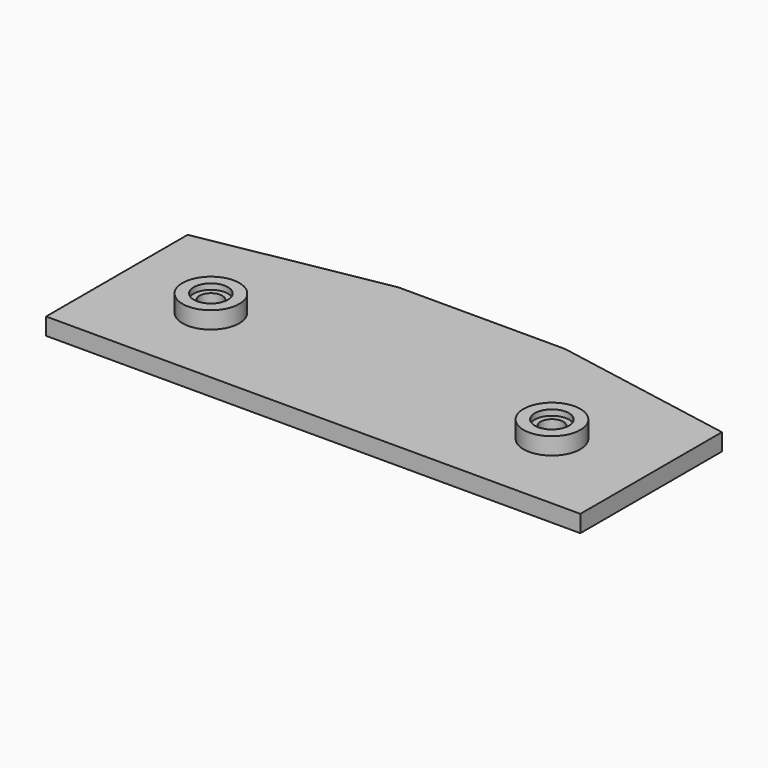
from build123d import *

# Parameters (mm, degrees)
SKETCH_W           = 100
SKETCH_H           = 45
PAD_DEPTH          = 20
PAD_FACE2_W        = 45
PAD_FACE2_H        = 20
POCKET_DEPTH       = 3
POCKET_FACE5_W     = 45
POCKET_FACE5_H     = 20
POCKET001_DEPTH    = 3
POCKET001_FACE1_W  = 94
POCKET001_FACE1_H  = 20
POCKET002_DEPTH    = 8
POCKET003_DEPTH    = 20
POCKET004_DEPTH    = 17
PAD001_DEPTH       = 2
SKETCH003_R        = 4.025
POCKET005_DEPTH    = 5
SKETCH004_R        = 4.025
POCKET006_DEPTH    = 5
SKETCH005_R        = 4.025
POCKET007_DEPTH    = 5
SKETCH006_R        = 4
SKETCH006_R_2      = 2
POCKET008_DEPTH    = 5
SKETCH007_R        = 3
POCKET009_DEPTH    = 1
PAD002_DEPTH       = 1
SKETCH008_R        = 4.05
POCKET010_DEPTH    = 5
SKETCH009_R        = 4.05
POCKET011_DEPTH    = 5
SKETCH010_R        = 4.05
POCKET012_DEPTH    = 5
SKETCH011_R        = 4
POCKET013_DEPTH    = 5
SKETCH012_W        = 15.333549
SKETCH012_H        = 10.93085
PAD003_DEPTH       = 3
POCKET014_DEPTH    = 20
SKETCH013_W        = 44.347308
SKETCH013_H        = 21.123651
PAD004_DEPTH       = 3
SKETCH014_R        = 3
POCKET015_DEPTH    = 5
SKETCH015_R        = 5
PAD005_DEPTH       = 3
SKETCH016_R        = 2
POCKET016_DEPTH    = 5
SKETCH017_R        = 3
POCKET017_DEPTH    = 1
POCKET017_FACE5_R  = 3
PAD006_DEPTH       = 1.5
PAD006_FACE5_W     = 94
PAD006_FACE5_H     = 1.5
POCKET018_DEPTH    = 3.5
POCKET018_FACE7_W  = 27.63
POCKET018_FACE7_H  = 1.5
POCKET019_DEPTH    = 3.5
POCKET019_FACE12_W = 27.63
POCKET019_FACE12_H = 1.5
POCKET020_DEPTH    = 3.5
POCKET020_FACE17_W = 32.8290557281
POCKET020_FACE17_H = 1.5
POCKET021_DEPTH    = 3.5
POCKET021_FACE14_W = 32.8290557281
POCKET021_FACE14_H = 1.5
POCKET022_DEPTH    = 3.5
POCKET022_FACE18_W = 29.4
POCKET022_FACE18_H = 1.5
POCKET023_DEPTH    = 3.5


with BuildPart() as part:
    # Sketch → Pad (new body)
    with BuildSketch(Plane.XY):
        with Locations((50, 22.5)):
            Rectangle(SKETCH_W, SKETCH_H)
    extrude(amount=PAD_DEPTH)

    # Pad Face2 → Pocket (cut)
    with BuildSketch(Plane(origin=(100, 22.5, 10), x_dir=(0, -1, 0), z_dir=(1, 0, 0))):
        Rectangle(PAD_FACE2_W, PAD_FACE2_H)
    extrude(amount=-POCKET_DEPTH, mode=Mode.SUBTRACT)

    # Pocket Face5 → Pocket001 (cut)
    with BuildSketch(Plane(origin=(0, 22.5, 10), x_dir=(0, 1, 0), z_dir=(-1, 0, 0))):
        Rectangle(POCKET_FACE5_W, POCKET_FACE5_H)
    extrude(amount=-POCKET001_DEPTH, mode=Mode.SUBTRACT)

    # Pocket001 Face1 → Pocket002 (cut)
    with BuildSketch(Plane(origin=(50, 0, 10), x_dir=(-1, 0, 0), z_dir=(0, -1, 0))):
        Rectangle(POCKET001_FACE1_W, POCKET001_FACE1_H)
    extrude(amount=-POCKET002_DEPTH, mode=Mode.SUBTRACT)

    # Sketch001 (on Face6 of Pocket002) → Pocket003 (cut)
    with BuildSketch(Plane.XY.offset(20)):
        Polygon((3, 45), (3, 39.13), (35.3, 45), align=None)
        Polygon((64.7, 45), (97, 45), (97, 39.13), align=None)
    extrude(amount=-POCKET003_DEPTH, mode=Mode.SUBTRACT)

    # Sketch002 (on Face8 of Pocket003) → Pocket004 (cut)
    with BuildSketch(Plane.XY.offset(20)):
        Polygon((6, 36.6260629355), (6, 11), (94, 11), (94, 36.6260629355), (64.6580556127, 42), (35.3419443873, 42), align=None)
    extrude(amount=-POCKET004_DEPTH, mode=Mode.SUBTRACT)

    # Pocket004 Face8 → Pad001 (add)
    with BuildSketch(Plane(origin=(50, 25.1421826555, 20), x_dir=(0, 1, 0), z_dir=(0, 0, 1))):
        Polygon((-17.1421826555, 47), (-17.1421826555, -47), (13.9878173445, -47), (19.8578173445, -14.7), (19.8578173445, 14.7), (13.9878173445, 47), align=None)
        Polygon((-14.1421826555, 44), (11.4838802799, 44), (16.8578173445, 14.6580556127), (16.8578173445, -14.6580556127), (11.4838802799, -44), (-14.1421826555, -44), align=None, mode=Mode.SUBTRACT)
    extrude(amount=PAD001_DEPTH)

    # Sketch003 (on Face6 of Pad001) → Pocket005 (cut)
    with BuildSketch(Plane(origin=(0, 45, 0), x_dir=(-1, 0, 0), z_dir=(0, 1, 0))):
        with Locations((-59.3625, 16.975)):
            Circle(SKETCH003_R)
        with Locations((-50, 16.975)):
            Circle(SKETCH003_R)
        with Locations((-40.6375, 16.975)):
            Circle(SKETCH003_R)
        with Locations((-59.3625, 7.525)):
            Circle(SKETCH003_R)
        with Locations((-50, 7.525)):
            Circle(SKETCH003_R)
        with Locations((-40.6375, 7.525)):
            Circle(SKETCH003_R)
    extrude(amount=-POCKET005_DEPTH, mode=Mode.SUBTRACT)

    # Sketch004 (on Face6 of Pocket005) → Pocket006 (cut)
    with BuildSketch(Plane(origin=(9.9850961575, 54.9435444444, 0), x_dir=(-0.983884528, 0.178805021, 0), z_dir=(0.178805021, 0.983884528, 0))):
        with Locations((-80.0098530156, 16.975)):
            Circle(SKETCH004_R)
        with Locations((-70.9736030156, 16.975)):
            Circle(SKETCH004_R)
        with Locations((-61.6111030156, 16.975)):
            Circle(SKETCH004_R)
        with Locations((-80.3361030156, 7.525)):
            Circle(SKETCH004_R)
        with Locations((-70.9736030156, 7.525)):
            Circle(SKETCH004_R)
        with Locations((-61.6111030156, 7.525)):
            Circle(SKETCH004_R)
    extrude(amount=-POCKET006_DEPTH, mode=Mode.SUBTRACT)

    # Sketch005 (on Face4 of Pocket006) → Pocket007 (cut)
    with BuildSketch(Plane(origin=(-6.7879726028, 37.3511950719, 0), x_dir=(-0.983884528, -0.178805021, 0), z_dir=(-0.178805021, 0.983884528, 0))):
        with Locations((-36.7773497852, 16.975)):
            Circle(SKETCH005_R)
        with Locations((-27.4148497852, 16.975)):
            Circle(SKETCH005_R)
        with Locations((-18.0523497852, 16.975)):
            Circle(SKETCH005_R)
        with Locations((-36.7773497852, 7.525)):
            Circle(SKETCH005_R)
        with Locations((-27.4148497852, 7.525)):
            Circle(SKETCH005_R)
        with Locations((-18.0523497852, 7.525)):
            Circle(SKETCH005_R)
    extrude(amount=-POCKET007_DEPTH, mode=Mode.SUBTRACT)

    # Sketch006 (on Face1 of Pocket007) → Pocket008 (cut)
    with BuildSketch(Plane(origin=(0, 0, 0), x_dir=(1, 0, 0), z_dir=(0, 0, -1))):
        with Locations((50, -23)):
            Circle(SKETCH006_R)
        with Locations((65.7, -18)):
            Circle(SKETCH006_R_2)
        with Locations((34.3, -18)):
            Circle(SKETCH006_R_2)
        with Locations((20, -23)):
            Circle(SKETCH006_R_2)
        with Locations((80, -23)):
            Circle(SKETCH006_R_2)
    extrude(amount=-POCKET008_DEPTH, mode=Mode.SUBTRACT)

    # Sketch007 (on Face1 of Pocket008) → Pocket009 (cut)
    with BuildSketch(Plane(origin=(0, 0, 0), x_dir=(1, 0, 0), z_dir=(0, 0, -1))):
        with Locations((20, -23)):
            Circle(SKETCH007_R)
        with Locations((80, -23)):
            Circle(SKETCH007_R)
    extrude(amount=-POCKET009_DEPTH, mode=Mode.SUBTRACT)

    # Pocket009 Face13 → Pad002 (add)
    with BuildSketch(Plane(origin=(50, 25.1421826555, 22), x_dir=(0, 1, 0), z_dir=(0, 0, 1))):
        Polygon((-17.1421826555, 47), (-17.1421826555, -47), (13.9878173445, -47), (19.8578173445, -14.7), (19.8578173445, 14.7), (13.9878173445, 47), align=None)
        Polygon((-14.1421826555, 44), (11.4838802799, 44), (16.8578173445, 14.6580556127), (16.8578173445, -14.6580556127), (11.4838802799, -44), (-14.1421826555, -44), align=None, mode=Mode.SUBTRACT)
    extrude(amount=PAD002_DEPTH)

    # Sketch008 (on Face30 of Pad002) → Pocket010 (cut)
    with BuildSketch(Plane(origin=(0, 45, 0), x_dir=(-1, 0, 0), z_dir=(0, 1, 0))):
        with Locations((-59.3625, 16.975)):
            Circle(SKETCH008_R)
        with Locations((-50.000011, 16.975002)):
            Circle(SKETCH008_R)
        with Locations((-40.6375, 16.975)):
            Circle(SKETCH008_R)
        with Locations((-40.6375, 7.525)):
            Circle(SKETCH008_R)
        with Locations((-50, 7.525)):
            Circle(SKETCH008_R)
        with Locations((-59.3625, 7.525)):
            Circle(SKETCH008_R)
    extrude(amount=-POCKET010_DEPTH, mode=Mode.SUBTRACT)

    # Sketch009 (on Face6 of Pocket010) → Pocket011 (cut)
    with BuildSketch(Plane(origin=(9.9850961575, 54.9435444444, 0), x_dir=(-0.983884528, 0.178805021, 0), z_dir=(0.178805021, 0.983884528, 0))):
        with Locations((-80.0098530156, 16.975)):
            Circle(SKETCH009_R)
        with Locations((-70.9736030156, 16.975)):
            Circle(SKETCH009_R)
        with Locations((-61.6111030156, 16.975)):
            Circle(SKETCH009_R)
        with Locations((-61.6111030156, 7.525)):
            Circle(SKETCH009_R)
        with Locations((-70.9736030156, 7.525)):
            Circle(SKETCH009_R)
        with Locations((-80.3361030156, 7.525)):
            Circle(SKETCH009_R)
    extrude(amount=-POCKET011_DEPTH, mode=Mode.SUBTRACT)

    # Sketch010 (on Face5 of Pocket011) → Pocket012 (cut)
    with BuildSketch(Plane(origin=(-6.7879726028, 37.3511950719, 0), x_dir=(-0.983884528, -0.178805021, 0), z_dir=(-0.178805021, 0.983884528, 0))):
        with Locations((-36.7773497852, 16.975)):
            Circle(SKETCH010_R)
        with Locations((-27.4148497852, 16.975)):
            Circle(SKETCH010_R)
        with Locations((-18.0523497852, 16.975)):
            Circle(SKETCH010_R)
        with Locations((-18.0523497852, 7.525)):
            Circle(SKETCH010_R)
        with Locations((-27.4148497852, 7.525)):
            Circle(SKETCH010_R)
        with Locations((-36.7773497852, 7.525)):
            Circle(SKETCH010_R)
    extrude(amount=-POCKET012_DEPTH, mode=Mode.SUBTRACT)

    # Sketch011 (on Face3 of Pocket012) → Pocket013 (cut)
    with BuildSketch(Plane(origin=(3, 0, 0), x_dir=(0, -1, 0), z_dir=(-1, 0, 0))):
        with Locations((-20, 15)):
            Circle(SKETCH011_R)
    extrude(amount=-POCKET013_DEPTH, mode=Mode.SUBTRACT)

    # Sketch012 (on Face3 of Pocket013) → Pad003 (join)
    with BuildSketch(Plane(origin=(3, 0, 0), x_dir=(0, -1, 0), z_dir=(-1, 0, 0))):
        with Locations((-20.0389255, 14.391196)):
            Rectangle(SKETCH012_W, SKETCH012_H)
    extrude(amount=-PAD003_DEPTH)

    # Cut004 Face13 → Pocket014 (cut)
    with BuildSketch(Plane(origin=(50, 25.1421826555, 23), x_dir=(0, 1, 0), z_dir=(0, 0, 1))):
        Polygon((-17.1421826555, 47), (-17.1421826555, -47), (13.9878173445, -47), (19.8578173445, -14.7), (19.8578173445, 14.7), (13.9878173445, 47), align=None)
        Polygon((-14.1421826555, 44), (11.4838802799, 44), (16.8578173445, 14.6580556127), (16.8578173445, -14.6580556127), (11.4838802799, -44), (-14.1421826555, -44), align=None, mode=Mode.SUBTRACT)
    extrude(amount=-POCKET014_DEPTH, mode=Mode.SUBTRACT)

    # Sketch013 (on Face14 of Pocket014) → Pad004 (join)
    with BuildSketch(Plane.XY.offset(3)):
        with Locations((50.079177, 23.7179785)):
            Rectangle(SKETCH013_W, SKETCH013_H)
    extrude(amount=-PAD004_DEPTH)

    # Sketch014 (on Face7 of Pad004) → Pocket015 (cut)
    with BuildSketch(Plane(origin=(0, 0, 0), x_dir=(1, 0, 0), z_dir=(0, 0, -1))):
        with Locations((20, -23)):
            Circle(SKETCH014_R)
        with Locations((80, -23)):
            Circle(SKETCH014_R)
    extrude(amount=-POCKET015_DEPTH, mode=Mode.SUBTRACT)

    # Sketch015 (on Face3 of Pocket015) → Pad005 (join)
    with BuildSketch(Plane.XY.offset(3)):
        with Locations((20, 23)):
            Circle(SKETCH015_R)
        with Locations((80, 23)):
            Circle(SKETCH015_R)
    extrude(amount=PAD005_DEPTH)

    # Sketch016 (on Face13 of Pad005) → Pocket016 (cut)
    with BuildSketch(Plane.XY.offset(6)):
        with Locations((20, 23)):
            Circle(SKETCH016_R)
        with Locations((80, 23)):
            Circle(SKETCH016_R)
    extrude(amount=-POCKET016_DEPTH, mode=Mode.SUBTRACT)

    # Sketch017 (on Face14 of Pocket016) → Pocket017 (cut)
    with BuildSketch(Plane.XY.offset(6)):
        with Locations((20, 23)):
            Circle(SKETCH017_R)
        with Locations((80, 23)):
            Circle(SKETCH017_R)
    extrude(amount=-POCKET017_DEPTH, mode=Mode.SUBTRACT)

    # Pocket017 Face5 → Pad006 (add)
    with BuildSketch(Plane(origin=(50, 25.5907028779, 0), x_dir=(0, -1, 0), z_dir=(0, 0, -1))):
        Polygon((17.5907028779, -47), (17.5907028779, 47), (-13.5392971221, 47), (-19.4092971221, 14.7), (-19.4092971221, -14.7), (-13.5392971221, -47), align=None)
        with Locations((2.5907028779, -30)):
            Circle(POCKET017_FACE5_R, mode=Mode.SUBTRACT)
        with Locations((2.5907028779, 30)):
            Circle(POCKET017_FACE5_R, mode=Mode.SUBTRACT)
    extrude(amount=PAD006_DEPTH)

    # Pad006 Face5 → Pocket018 (cut)
    with BuildSketch(Plane(origin=(50, 8, -0.75), x_dir=(-1, 0, 0), z_dir=(0, -1, 0))):
        Rectangle(PAD006_FACE5_W, PAD006_FACE5_H)
    extrude(amount=-POCKET018_DEPTH, mode=Mode.SUBTRACT)

    # Pocket018 Face7 → Pocket019 (cut)
    with BuildSketch(Plane(origin=(3, 25.315, -0.75), x_dir=(0, 1, 0), z_dir=(-1, 0, 0))):
        Rectangle(POCKET018_FACE7_W, POCKET018_FACE7_H)
    extrude(amount=-POCKET019_DEPTH, mode=Mode.SUBTRACT)

    # Pocket019 Face12 → Pocket020 (cut)
    with BuildSketch(Plane(origin=(97, 25.315, -0.75), x_dir=(0, -1, 0), z_dir=(1, 0, 0))):
        Rectangle(POCKET019_FACE12_W, POCKET019_FACE12_H)
    extrude(amount=-POCKET020_DEPTH, mode=Mode.SUBTRACT)

    # Pocket020 Face17 → Pocket021 (cut)
    with BuildSketch(Plane(origin=(80.85, 42.065, -0.75), x_dir=(0.983884528, -0.178805021, 0), z_dir=(0.178805021, 0.983884528, 0))):
        Rectangle(POCKET020_FACE17_W, POCKET020_FACE17_H)
    extrude(amount=-POCKET021_DEPTH, mode=Mode.SUBTRACT)

    # Pocket021 Face14 → Pocket022 (cut)
    with BuildSketch(Plane(origin=(19.15, 42.065, -0.75), x_dir=(0.983884528, 0.178805021, 0), z_dir=(-0.178805021, 0.983884528, 0))):
        Rectangle(POCKET021_FACE14_W, POCKET021_FACE14_H)
    extrude(amount=-POCKET022_DEPTH, mode=Mode.SUBTRACT)

    # Pocket022 Face18 → Pocket023 (cut)
    with BuildSketch(Plane(origin=(50, 45, -0.75), x_dir=(1, 0, 0), z_dir=(0, 1, 0))):
        Rectangle(POCKET022_FACE18_W, POCKET022_FACE18_H)
    extrude(amount=-POCKET023_DEPTH, mode=Mode.SUBTRACT)


solid = part.part
